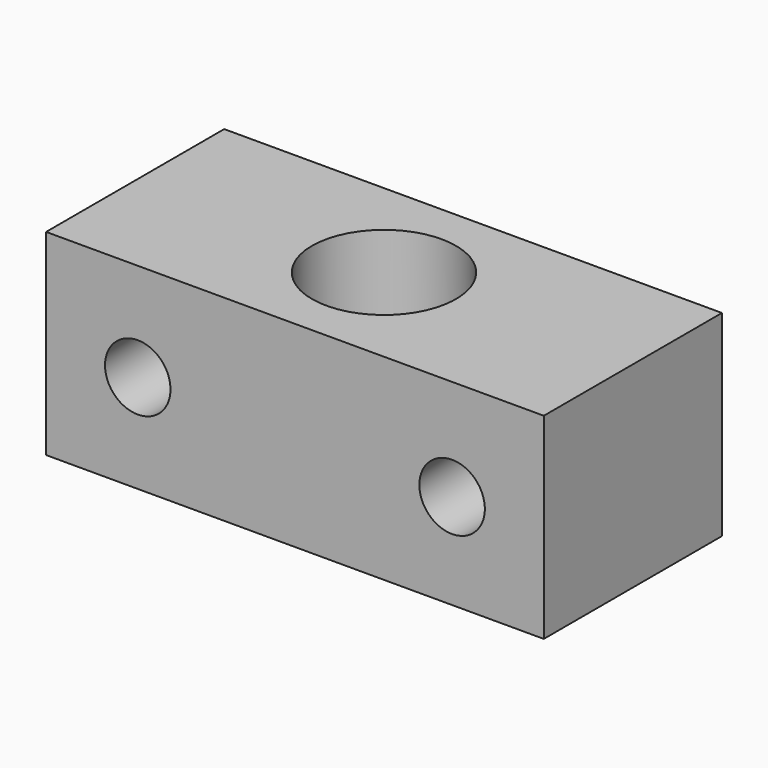
from build123d import *

# Parameters (mm, degrees)
F0_W     = 38
F0_H     = 17
F1_DEPTH = 15
F3_D     = 11
F5_D     = 5


with BuildPart() as f1:
    # F0 (on Top) → F1 (new body)
    with BuildSketch(Plane.XY):
        Rectangle(F0_W, F0_H)
    extrude(amount=F1_DEPTH)

    # F3 (through all)
    with Locations(Plane(origin=(0, 0, 0), x_dir=(1, 0, 0), z_dir=(0, 0, -1))):
        with Locations((0, 0)):
            Hole(F3_D / 2)

    # F5 (through all)
    with Locations(Plane.XZ.offset(8.5)):
        with Locations((-12, 7.5), (11.998904, 7.270673)):
            Hole(F5_D / 2)


solid = f1.part
